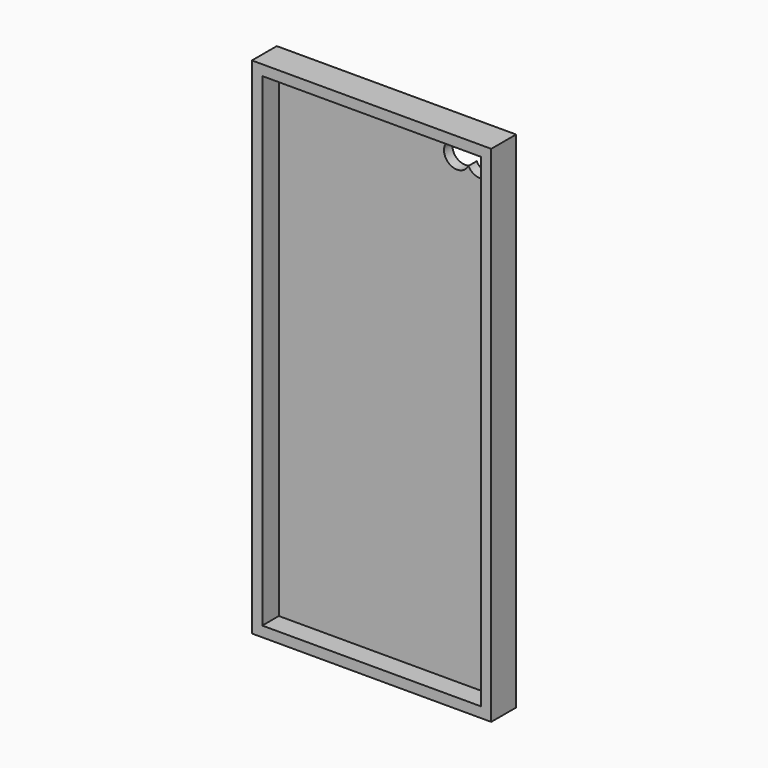
from build123d import *

# Parameters (mm, degrees)
F0_W     = 58.674
F0_H     = 123.698
F1_DEPTH = 7.62
F2_T     = -2.54
F4_D     = 6.35


with BuildPart() as f1:
    # F0 (on Front) → F1 (new body)
    with BuildSketch(Plane.XZ):
        with Locations((13.1707786496, -0.2674552867)):
            Rectangle(F0_W, F0_H)
    extrude(amount=F1_DEPTH)

    # F2
    f2_openings = [f1.faces().sort_by_distance(p)[0] for p in [
        (13.170779, -7.62, -0.267455),
    ]]
    offset(amount=F2_T, openings=f2_openings)

    # F4 (through all)
    with Locations(Plane(origin=(0, 0, 0), x_dir=(1, 0, 0), z_dir=(0, 1, 0))):
        with Locations((30.0433114171, -54.1525930166), (35.6767475605, -54.1525930166)):
            Hole(F4_D / 2)


solid = f1.part
